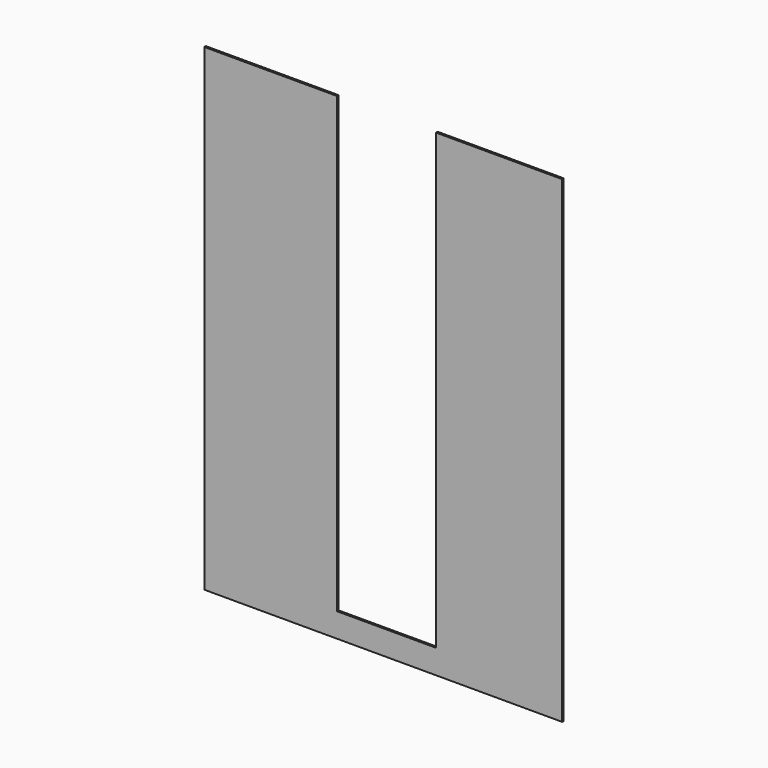
from build123d import *

# Parameters (mm, degrees)
F1_DEPTH = 3
F3_DEPTH = 25.4
F4_W     = 9.96188
F4_H     = 735.775
F5_DEPTH = 25.4


with BuildPart() as f1:
    # F0 (on Front) → F1 (new body)
    with BuildSketch(Plane.XZ):
        Polygon((-76.2, 698.5), (-280.5938, 698.5), (-280.5938, -41.275), (280.59888, -41.275), (280.59888, 698.5), (76.2, 698.5), (76.2, 0), (0, 0), (-76.2, 0), align=None)
    extrude(amount=F1_DEPTH)

    # F2 (on face) → F3 (cut)
    with BuildSketch(Plane.XZ.offset(3)):
        Polygon((-280.5938, -37.275), (-280.5938, -41.275), (-280.2390158176, -41.275), (280.59888, -41.275), (280.59888, -37.275), align=None)
    extrude(amount=-F3_DEPTH, mode=Mode.SUBTRACT)

    # F4 (on face) → F5 (cut)
    with BuildSketch(Plane.XZ.offset(3)):
        with Locations((275.61794, 330.6125)):
            Rectangle(F4_W, F4_H)
    extrude(amount=-F5_DEPTH, mode=Mode.SUBTRACT)


solid = f1.part
